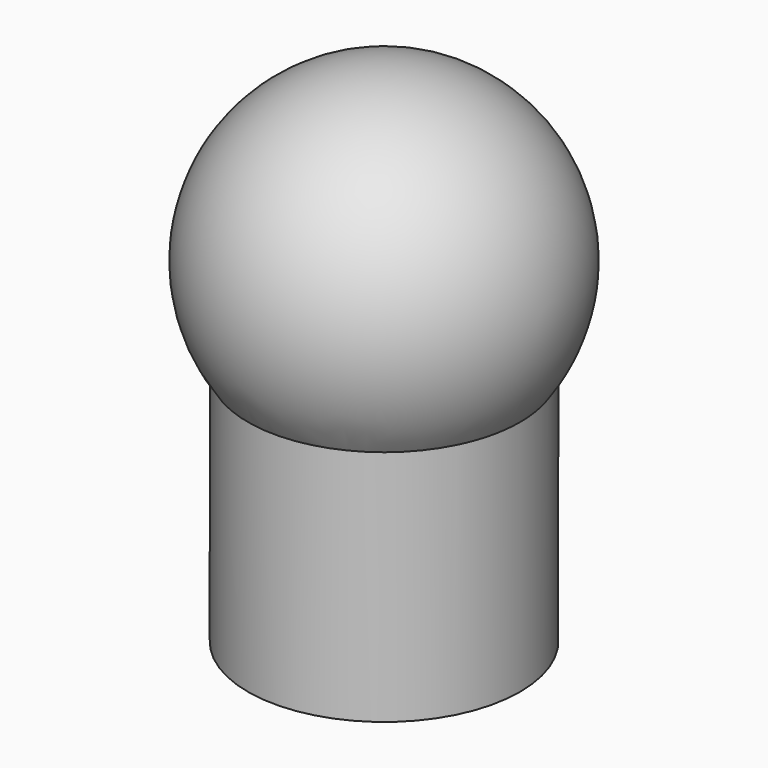
from build123d import *

# Parameters (mm, degrees)
F2_W = 10.3120765318
F2_H = 25.4


with BuildPart() as f3:
    # F2 (on face) → F3 (revolve)
    with BuildSketch(Plane.XZ):
        with Locations((5.1560382659, -12.7)):
            Rectangle(F2_W, F2_H)
    revolve(axis=Axis((0, 0, -12.732764706), (0, 0, 1)))

    # F0 (on Top) → F4 (revolve)
    with BuildSketch(Plane.XY):
        with BuildLine():
            Line((0, 0), (12.7, 0))
            ThreePointArc((12.7, 0), (0, 12.7), (-12.7, 0))
            Line((-12.7, 0), (0, 0))
        make_face()
    revolve(axis=Axis((0.7870765318, 0, 0), (1, 0, 0)))


solid = f3.part
